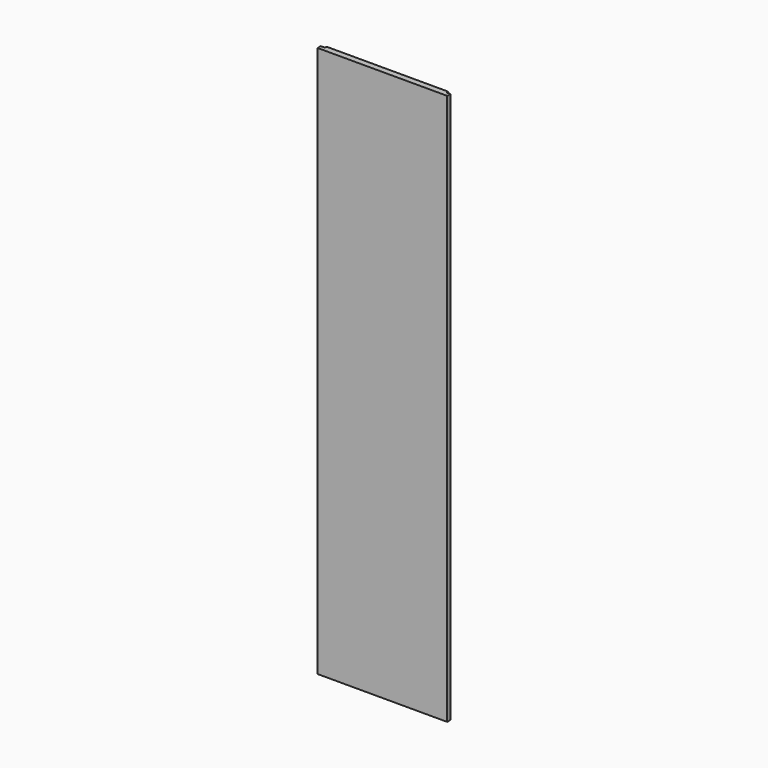
from build123d import *

# Parameters (mm, degrees)
F0_W       = 406.4
F0_H       = 19.05
F1_DEPTH   = 1727.2
F2_W       = 12.7
F2_H       = 6.35
F1_FACE1_W = 406.4
F1_FACE1_H = 19.05
F3_DEPTH   = 1727.201
F4_W       = 12.7
F4_H       = 6.35
F5_DEPTH   = 1727.201


with BuildPart() as f1:
    # F0 (on Top) → F1 (new body)
    with BuildSketch(Plane.XY):
        with Locations((0, -9.525)):
            Rectangle(F0_W, F0_H)
    extrude(amount=F1_DEPTH)

    # F2 (on face) + F1_face1 (on face) → F3 (cut, through all)
    with BuildSketch(Plane.XY.offset(1727.2)):
        with Locations((196.85, -3.175)):
            Rectangle(F2_W, F2_H)
    with BuildSketch(Plane(origin=(0, -9.525, 0), x_dir=(1, 0, 0), z_dir=(0, 0, -1))):
        Rectangle(F1_FACE1_W, F1_FACE1_H)
    extrude(amount=-F3_DEPTH, dir=(0, 0, 1), mode=Mode.SUBTRACT)

    # F4 (on face) → F5 (cut, through all)
    with BuildSketch(Plane.XY.offset(1727.2)):
        with Locations((-196.85, -3.175)):
            Rectangle(F4_W, F4_H)
    extrude(amount=-F5_DEPTH, mode=Mode.SUBTRACT)


solid = f1.part
